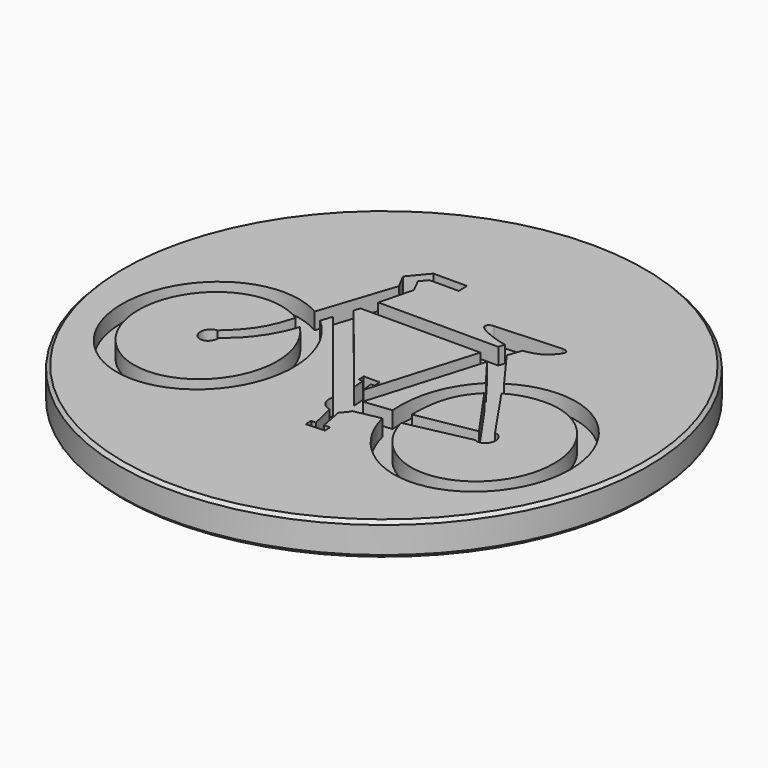
from build123d import *

# Parameters (mm, degrees)
POCKET_DEPTH = 1.25


with BuildPart() as part:
    # Sketch (on DatumPlane) → Revolution (revolve)
    with BuildSketch(Plane.YZ):
        Polygon((0, 0), (0, -2.5), (19.75, -2.5), (20, -2.25), (20, -0.25), (19.75, 0), align=None)
    revolve(axis=Axis((0, 0, 0), (0, 0, 1)))

    # Sketch005 → Pocket (cut)
    with BuildSketch(Plane.XY):
        with BuildLine():
            add(Edge.make_bspline(
                [(-7.499571, 2.809303), (-5.638444, 8.473782)],
                knots=[0, 0, 30.896035, 30.896035], degree=1))
            add(Edge.make_bspline(
                [(-5.638444, 8.473782), (-6.228415, 9.584691)],
                knots=[0, 0, 6.513002, 6.513002], degree=1))
            add(Edge.make_bspline(
                [(-6.228415, 9.584691), (-5.048472, 11.000328)],
                knots=[0, 0, 9.531107, 9.531107], degree=1))
            add(Edge.make_bspline(
                [(-5.048472, 11.000328), (-2.513924, 11.000328)],
                knots=[0, 0, 13.06, 13.06], degree=1))
            add(Edge.make_bspline(
                [(-2.513924, 11.000328), (-2.478992, 10.196076)],
                knots=[0, 0, 4.173883, 4.173883], degree=1))
            add(Edge.make_bspline(
                [(-2.478992, 10.196076), (-4.701088, 10.196076)],
                knots=[0, 0, 11.45, 11.45], degree=1))
            add(Edge.make_bspline(
                [(-4.701088, 10.196076), (-5.151329, 9.661837)],
                knots=[0, 0, 3.613212, 3.613212], degree=1))
            add(Edge.make_bspline(
                [(-5.151329, 9.661837), (-4.631223, 8.628074)],
                knots=[0, 0, 5.992662, 5.992662], degree=1))
            add(Edge.make_bspline(
                [(-4.631223, 8.628074), (-5.285237, 6.068741)],
                knots=[0, 0, 13.691231, 13.691231], degree=1))
            add(Edge.make_bspline(
                [(-5.285237, 6.068741), (3.808862, 6.068741)],
                knots=[0, 0, 46.86, 46.86], degree=1))
            add(Edge.make_bspline(
                [(3.808862, 6.068741), (3.948592, 6.537405)],
                knots=[0, 0, 2.534423, 2.534423], degree=1))
            add(Edge.make_bspline(
                [(3.948592, 6.537405), (3.21695, 6.641553), (1.957438, 7.139148), (1.65663, 7.426518)],
                knots=[0, 0, 0, 0, 1, 1, 1, 1], degree=3))
            add(Edge.make_bspline(
                [(1.65663, 7.426518), (1.353882, 7.715818), (1.617817, 7.980044), (1.96132, 7.991616)],
                knots=[0, 0, 0, 0, 1, 1, 1, 1], degree=3))
            add(Edge.make_bspline(
                [(1.96132, 7.991616), (3.756463, 8.076477), (6.422979, 8.242342), (6.9295, 8.244271)],
                knots=[0, 0, 0, 0, 1, 1, 1, 1], degree=3))
            add(Edge.make_bspline(
                [(6.9295, 8.244271), (7.436022, 8.248128), (7.48842, 7.966544), (7.148799, 7.557667)],
                knots=[0, 0, 0, 0, 1, 1, 1, 1], degree=3))
            add(Edge.make_bspline(
                [(7.148799, 7.557667), (6.811118, 7.148791), (6.514191, 6.780417), (5.229451, 6.560549)],
                knots=[0, 0, 0, 0, 1, 1, 1, 1], degree=3))
            add(Edge.make_bspline(
                [(5.229451, 6.560549), (4.882066, 5.526787)],
                knots=[0, 0, 5.650991, 5.650991], degree=1))
            add(Edge.make_bspline(
                [(4.882066, 5.526787), (7.034298, 2.587507)],
                knots=[0, 0, 18.847963, 18.847963], degree=1))
            add(Edge.make_bspline(
                [(7.034298, 2.587507), (8.049281, 3.266395), (9.275801, 3.619341), (10.467388, 3.619341)],
                knots=[0, 0, 0, 0, 1, 1, 1, 1], degree=3))
            add(Edge.make_bspline(
                [(10.467388, 3.619341), (14.04409, 3.619341), (16.960955, 0.404262), (16.960955, -3.537922)],
                knots=[0, 0, 0, 0, 1, 1, 1, 1], degree=3))
            add(Edge.make_bspline(
                [(16.960955, -3.537922), (16.960955, -7.482035), (14.04409, -10.697114), (10.467388, -10.697114)],
                knots=[0, 0, 0, 0, 1, 1, 1, 1], degree=3))
            add(Edge.make_bspline(
                [(10.467388, -10.697114), (7.525294, -10.697114), (4.938347, -8.459867), (4.177594, -5.368222)],
                knots=[0, 0, 0, 0, 1, 1, 1, 1], degree=3))
            add(Edge.make_bspline(
                [(4.177594, -5.368222), (2.200025, -5.75974)],
                knots=[0, 0, 10.390236, 10.390236], degree=1))
            add(Edge.make_bspline(
                [(2.200025, -5.75974), (2.114635, -6.016252), (1.918624, -6.214905), (1.68186, -6.369197)],
                knots=[0, 0, 0, 0, 1, 1, 1, 1], degree=3))
            add(Edge.make_bspline(
                [(1.68186, -6.369197), (2.035066, -8.212998)],
                knots=[0, 0, 9.731701, 9.731701], degree=1))
            add(Edge.make_bspline(
                [(2.035066, -8.212998), (2.485307, -8.212998)],
                knots=[0, 0, 2.32, 2.32], degree=1))
            add(Edge.make_bspline(
                [(2.485307, -8.212998), (2.52024, -8.710592)],
                knots=[0, 0, 2.586271, 2.586271], degree=1))
            add(Edge.make_bspline(
                [(2.52024, -8.710592), (1.09771, -8.78581)],
                knots=[0, 0, 7.340368, 7.340368], degree=1))
            add(Edge.make_bspline(
                [(1.09771, -8.78581), (1.09771, -8.251571)],
                knots=[0, 0, 2.77, 2.77], degree=1))
            add(Edge.make_bspline(
                [(1.09771, -8.251571), (1.445095, -8.251571)],
                knots=[0, 0, 1.79, 1.79], degree=1))
            add(Edge.make_bspline(
                [(1.445095, -8.251571), (1.01426, -6.407771)],
                knots=[0, 0, 9.814377, 9.814377], degree=1))
            add(Edge.make_bspline(
                [(1.01426, -6.407771), (0.375771, -6.292051), (0.040031, -5.68838), (0.230219, -5.088566)],
                knots=[0, 0, 0, 0, 1, 1, 1, 1], degree=3))
            add(Edge.make_bspline(
                [(0.230219, -5.088566), (-6.230356, 2.965524)],
                knots=[0, 0, 53.405259, 53.405259], degree=1))
            add(Edge.make_bspline(
                [(-6.230356, 2.965524), (-6.51952, 2.101484)],
                knots=[0, 0, 4.721282, 4.721282], degree=1))
            add(Edge.make_bspline(
                [(-6.51952, 2.101484), (-4.951438, 0.739849), (-4.014082, -1.356606), (-4.014082, -3.537922)],
                knots=[0, 0, 0, 0, 1, 1, 1, 1], degree=3))
            add(Edge.make_bspline(
                [(-4.014082, -3.537922), (-4.014082, -7.482035), (-6.930947, -10.697114), (-10.507649, -10.697114)],
                knots=[0, 0, 0, 0, 1, 1, 1, 1], degree=3))
            add(Edge.make_bspline(
                [(-10.507649, -10.697114), (-14.08435, -10.697114), (-17.001216, -7.482035), (-17.001216, -3.537922)],
                knots=[0, 0, 0, 0, 1, 1, 1, 1], degree=3))
            add(Edge.make_bspline(
                [(-17.001216, -3.537922), (-17.001216, 0.404262), (-14.08435, 3.619341), (-10.507649, 3.619341)],
                knots=[0, 0, 0, 0, 1, 1, 1, 1], degree=3))
            add(Edge.make_bspline(
                [(-10.507649, 3.619341), (-9.467436, 3.619341), (-8.401994, 3.339685), (-7.499571, 2.809303)],
                knots=[0, 0, 0, 0, 1, 1, 1, 1], degree=3))
        make_face()
        with BuildLine():
            add(Edge.make_bspline(
                [(5.415758, -5.125211), (6.00961, -7.568825), (8.126909, -9.335479), (10.467388, -9.335479)],
                knots=[0, 0, 0, 0, 1, 1, 1, 1], degree=3))
            add(Edge.make_bspline(
                [(10.467388, -9.335479), (13.362906, -9.335479), (15.726673, -6.731786), (15.726673, -3.537922)],
                knots=[0, 0, 0, 0, 1, 1, 1, 1], degree=3))
            add(Edge.make_bspline(
                [(15.726673, -3.537922), (15.726673, -0.345988), (13.362906, 2.257706), (10.467388, 2.257706)],
                knots=[0, 0, 0, 0, 1, 1, 1, 1], degree=3))
            add(Edge.make_bspline(
                [(10.467388, 2.257706), (9.543617, 2.257706), (8.474294, 2.018551), (7.694134, 1.513242)],
                knots=[0, 0, 0, 0, 1, 1, 1, 1], degree=3))
            add(Edge.make_bspline(
                [(7.694134, 1.513242), (10.546956, -2.66231)],
                knots=[0, 0, 26.168922, 26.168922], degree=1))
            add(Edge.make_bspline(
                [(10.546956, -2.66231), (10.896282, -2.670025), (11.200971, -3.013326), (11.200971, -3.427989)],
                knots=[0, 0, 0, 0, 1, 1, 1, 1], degree=3))
            add(Edge.make_bspline(
                [(11.200971, -3.427989), (11.200971, -3.850365), (10.888519, -4.193667), (10.506202, -4.193667)],
                knots=[0, 0, 0, 0, 1, 1, 1, 1], degree=3))
            add(Edge.make_bspline(
                [(10.506202, -4.193667), (10.401404, -4.193667), (10.288844, -4.164737), (10.195691, -4.114592)],
                knots=[0, 0, 0, 0, 1, 1, 1, 1], degree=3))
            add(Edge.make_bspline(
                [(10.195691, -4.114592), (5.415758, -5.125211)],
                knots=[0, 0, 25.181233, 25.181233], degree=1))
        make_face(mode=Mode.SUBTRACT)
        with BuildLine():
            add(Edge.make_bspline(
                [(-9.797354, -3.408702), (-8.578597, -2.342152), (-7.629597, -1.323819), (-6.944532, 0.710919)],
                knots=[0, 0, 0, 0, 1, 1, 1, 1], degree=3))
            add(Edge.make_bspline(
                [(-6.944532, 0.710919), (-5.865505, -0.369131), (-5.248364, -1.931347), (-5.248364, -3.537922)],
                knots=[0, 0, 0, 0, 1, 1, 1, 1], degree=3))
            add(Edge.make_bspline(
                [(-5.248364, -3.537922), (-5.248364, -6.731786), (-7.61019, -9.335479), (-10.507649, -9.335479)],
                knots=[0, 0, 0, 0, 1, 1, 1, 1], degree=3))
            add(Edge.make_bspline(
                [(-10.507649, -9.335479), (-13.403166, -9.335479), (-15.764993, -6.731786), (-15.764993, -3.537922)],
                knots=[0, 0, 0, 0, 1, 1, 1, 1], degree=3))
            add(Edge.make_bspline(
                [(-15.764993, -3.537922), (-15.764993, -0.345988), (-13.403166, 2.257706), (-10.507649, 2.257706)],
                knots=[0, 0, 0, 0, 1, 1, 1, 1], degree=3))
            add(Edge.make_bspline(
                [(-10.507649, 2.257706), (-9.581937, 2.257706), (-8.638759, 1.964549), (-7.876066, 1.468883)],
                knots=[0, 0, 0, 0, 1, 1, 1, 1], degree=3))
            add(Edge.make_bspline(
                [(-7.876066, 1.468883), (-8.392291, -0.32863), (-8.89299, -1.254387), (-10.480479, -2.66231)],
                knots=[0, 0, 0, 0, 1, 1, 1, 1], degree=3))
            add(Edge.make_bspline(
                [(-10.480479, -2.66231), (-10.864737, -2.681597), (-11.157782, -3.021041), (-11.157782, -3.427989)],
                knots=[0, 0, 0, 0, 1, 1, 1, 1], degree=3))
            add(Edge.make_bspline(
                [(-11.157782, -3.427989), (-11.157782, -3.850365), (-10.84533, -4.193667), (-10.463013, -4.193667)],
                knots=[0, 0, 0, 0, 1, 1, 1, 1], degree=3))
            add(Edge.make_bspline(
                [(-10.463013, -4.193667), (-10.080696, -4.193667), (-9.797354, -3.850365), (-9.797354, -3.408702)],
                knots=[0, 0, 0, 0, 1, 1, 1, 1], degree=3))
        make_face(mode=Mode.SUBTRACT)
        with BuildLine():
            add(Edge.make_bspline(
                [(-5.776233, 4.344517), (-5.634562, 4.820897)],
                knots=[0, 0, 2.575616, 2.575616], degree=1))
            add(Edge.make_bspline(
                [(-5.634562, 4.820897), (3.444011, 4.834397)],
                knots=[0, 0, 46.780052, 46.780052], degree=1))
            add(Edge.make_bspline(
                [(3.444011, 4.834397), (1.027845, -3.237051)],
                knots=[0, 0, 43.662627, 43.662627], degree=1))
            add(Edge.make_bspline(
                [(1.027845, -3.237051), (0.923048, -2.394226)],
                knots=[0, 0, 4.403237, 4.403237], degree=1))
            add(Edge.make_bspline(
                [(0.923048, -2.394226), (1.202508, -2.394226)],
                knots=[0, 0, 1.44, 1.44], degree=1))
            add(Edge.make_bspline(
                [(1.202508, -2.394226), (1.167575, -1.859987)],
                knots=[0, 0, 2.775842, 2.775842], degree=1))
            add(Edge.make_bspline(
                [(1.167575, -1.859987), (-0.0473, -1.859987)],
                knots=[0, 0, 6.26, 6.26], degree=1))
            add(Edge.make_bspline(
                [(-0.0473, -1.859987), (-0.014308, -2.357581)],
                knots=[0, 0, 2.585595, 2.585595], degree=1))
            add(Edge.make_bspline(
                [(-0.014308, -2.357581), (0.298144, -2.357581)],
                knots=[0, 0, 1.61, 1.61], degree=1))
            add(Edge.make_bspline(
                [(0.298144, -2.357581), (0.368009, -3.275624)],
                knots=[0, 0, 4.773594, 4.773594], degree=1))
            add(Edge.make_bspline(
                [(0.368009, -3.275624), (0.368009, -3.275624), (-5.741301, 4.305944), (-5.776233, 4.344517)],
                knots=[0, 0, 0, 0, 1, 1, 1, 1], degree=3))
        make_face(mode=Mode.SUBTRACT)
        with BuildLine():
            add(Edge.make_bspline(
                [(4.006813, -4.187881), (3.99905, -4.014302), (3.973821, -3.734646), (3.973821, -3.537922)],
                knots=[0, 0, 0, 0, 1, 1, 1, 1], degree=3))
            add(Edge.make_bspline(
                [(3.973821, -3.537922), (3.973821, -1.55333), (4.55603, 0.377261), (6.137696, 1.979978)],
                knots=[0, 0, 0, 0, 1, 1, 1, 1], degree=3))
            add(Edge.make_bspline(
                [(6.137696, 1.979978), (4.491987, 4.15358)],
                knots=[0, 0, 14.104017, 14.104017], degree=1))
            add(Edge.make_bspline(
                [(4.491987, 4.15358), (1.941913, -4.419321)],
                knots=[0, 0, 46.351506, 46.351506], degree=1))
            add(Edge.make_bspline(
                [(1.941913, -4.419321), (4.006813, -4.187881)],
                knots=[0, 0, 10.707455, 10.707455], degree=1))
        make_face(mode=Mode.SUBTRACT)
        with BuildLine():
            add(Edge.make_bspline(
                [(5.229451, -3.894725), (9.675584, -3.09433)],
                knots=[0, 0, 23.282839, 23.282839], degree=1))
            add(Edge.make_bspline(
                [(9.675584, -3.09433), (6.87322, 0.917286)],
                knots=[0, 0, 25.321011, 25.321011], degree=1))
            add(Edge.make_bspline(
                [(6.87322, 0.917286), (5.42158, -0.477137), (5.241095, -2.153143), (5.229451, -3.894725)],
                knots=[0, 0, 0, 0, 1, 1, 1, 1], degree=3))
        make_face(mode=Mode.SUBTRACT)
    extrude(amount=-POCKET_DEPTH, mode=Mode.SUBTRACT)


solid = part.part
